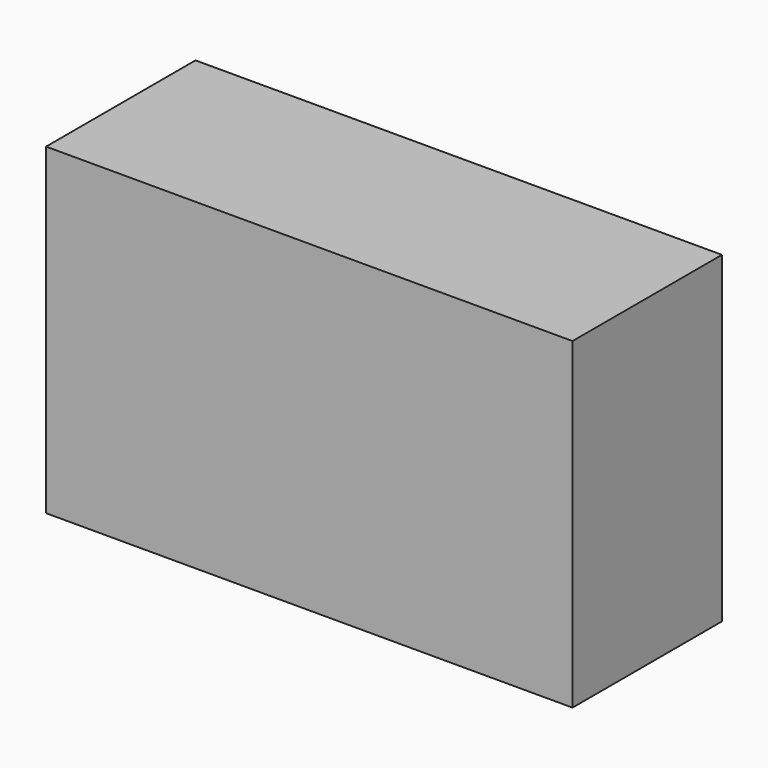
from build123d import *

# Parameters (mm, degrees)
F1_W     = 125.850864
F1_H     = 77.152186
F2_DEPTH = 25.4
F5_W     = 125.850864
F5_H     = 77.152186
F0_W     = 71.593196
F0_H     = 22.894516
F3_DEPTH = 44.646161


with BuildPart() as f2:
    # F1 (on Front) → F2 (new body)
    with BuildSketch(Plane.XZ):
        with Locations((-5.744055, 26.894942)):
            Rectangle(F1_W, F1_H)
    extrude(amount=F2_DEPTH)

    # F5 (on face) + F0 (on Front) → F3 (join)
    with BuildSketch(Plane.XZ):
        with Locations((-5.744055, 26.894942)):
            Rectangle(F5_W, F5_H)
    with BuildSketch(Plane.XZ):
        with Locations((-5.744055, 26.894942)):
            Rectangle(F0_W, F0_H)
    extrude(amount=F3_DEPTH)


solid = f2.part
